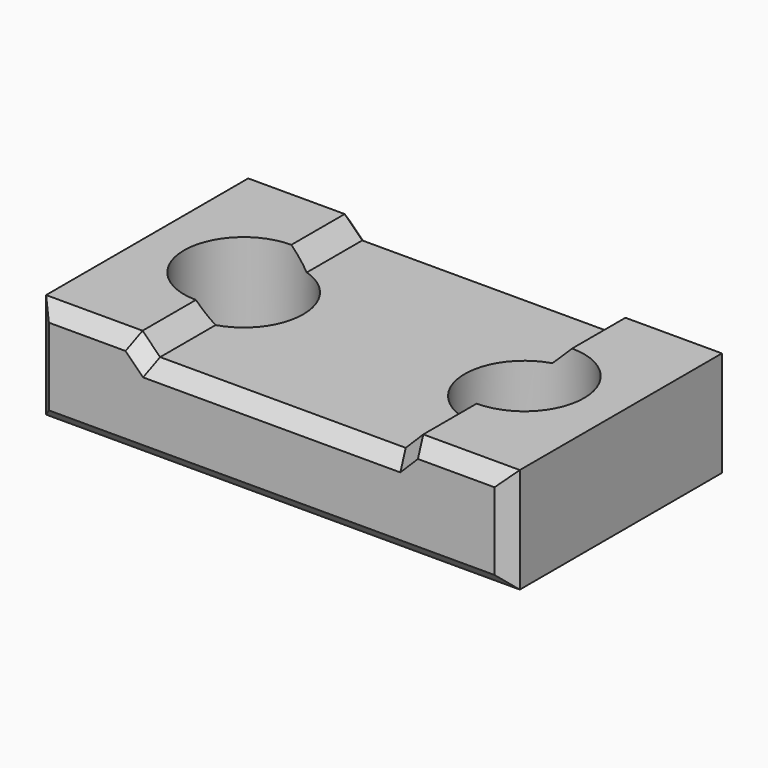
from build123d import *

# Parameters (mm, degrees)
CYLINDER003_R     = 1.7
CYLINDER003_DEPTH = 10
CYLINDER002_R     = 1.7
CYLINDER002_DEPTH = 10
BOX003_W          = 8
BOX003_H          = 8
BOX003_DEPTH      = 1.5
CHAMFER001_SIZE   = 0.5
BOX002_W          = 13.5
BOX002_H          = 8
BOX002_DEPTH      = 3
CHAMFER004_SIZE   = 0.4


with BuildPart() as cylinder003:
    # Cylinder003 → Cylinder003 (new body)
    with BuildSketch(Plane(origin=(-4, 11, 0), x_dir=(1, 0, 0), z_dir=(0, 0, 1))):
        Circle(CYLINDER003_R)
    extrude(amount=CYLINDER003_DEPTH)


with BuildPart() as fusion002:
    # Cylinder002 → Cylinder002 (new body)
    with BuildSketch(Plane(origin=(4, 11, 0), x_dir=(1, 0, 0), z_dir=(0, 0, 1))):
        Circle(CYLINDER002_R)
    extrude(amount=CYLINDER002_DEPTH)

    # Fusion002: union Cylinder003
    add(cylinder003.part)


with BuildPart() as chamfer001:
    # Box003 → Box003 (new body)
    with BuildSketch(Plane(origin=(-4, 7, 7.5), x_dir=(1, 0, 0), z_dir=(0, 0, 1))):
        with Locations((4, 4)):
            Rectangle(BOX003_W, BOX003_H)
    extrude(amount=BOX003_DEPTH)

    # Chamfer001
    chamfer001_edges = [chamfer001.edges().sort_by_distance(p)[0] for p in [
        (-4, 11, 7.5),
        (4, 11, 7.5),
    ]]
    chamfer(chamfer001_edges, length=CHAMFER001_SIZE)


with BuildPart() as chamfer004:
    # Box002 → Box002 (new body)
    with BuildSketch(Plane(origin=(-6.75, 7, 5), x_dir=(1, 0, 0), z_dir=(0, 0, 1))):
        with Locations((6.75, 4)):
            Rectangle(BOX002_W, BOX002_H)
    extrude(amount=BOX002_DEPTH)

    # Cut002008023012009006003002006002006002004004003: cut Chamfer001
    add(chamfer001.part, mode=Mode.SUBTRACT)

    # Cut002008023012009006003002006002006002004004004: cut Fusion002
    add(fusion002.part, mode=Mode.SUBTRACT)

    # Chamfer004
    chamfer004_edges = [chamfer004.edges().sort_by_distance(p)[0] for p in [
        (-6.75, 7, 6.5),
        (-6.75, 15, 6.5),
        (6.75, 7, 6.5),
        (5.375, 7, 8),
        (3.75, 7, 7.75),
        (0, 7, 7.5),
        (-3.75, 7, 7.75),
        (-5.375, 7, 8),
        (0, 7, 5),
        (-5.375, 15, 8),
        (6.75, 15, 6.5),
        (5.375, 15, 8),
        (3.75, 15, 7.75),
        (0, 15, 7.5),
        (-3.75, 15, 7.75),
        (0, 15, 5),
    ]]
    chamfer(chamfer004_edges, length=CHAMFER004_SIZE)


solid = chamfer004.part
